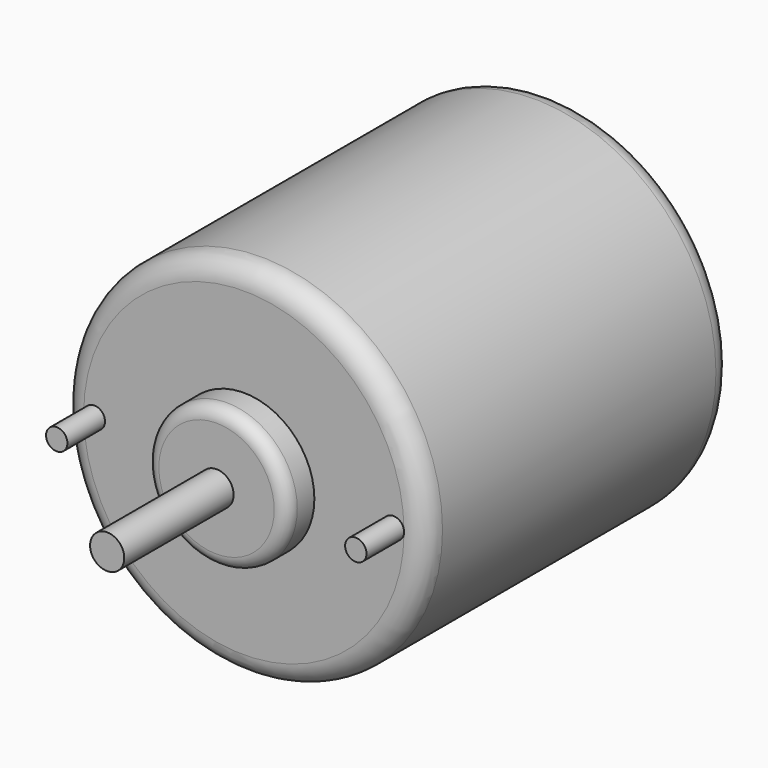
from build123d import *

# Parameters (mm, degrees)
SKETCH_R     = 42.5
PAD_DEPTH    = 90
FILLET_R     = 5
FILLET001_R  = 5
SKETCH001_R  = 16.5
PAD001_DEPTH = 8
FILLET002_R  = 3
SKETCH002_R  = 4
PAD002_DEPTH = 32
PAD003_DEPTH = 6
SKETCH004_R  = 16.5
PAD004_DEPTH = 10
FILLET003_R  = 3
SKETCH005_R  = 2.5
PAD005_DEPTH = 11


with BuildPart() as part:
    # Sketch → Pad (new body)
    with BuildSketch(Plane.XZ):
        Circle(SKETCH_R)
    extrude(amount=PAD_DEPTH)

    # Fillet
    fillet_edges = [part.edges().sort_by_distance(p)[0] for p in [
        (-42.5, -90, 0),
    ]]
    fillet(fillet_edges, radius=FILLET_R)

    # Fillet001
    fillet001_edges = [part.edges().sort_by_distance(p)[0] for p in [
        (-42.5, 0, 0),
    ]]
    fillet(fillet001_edges, radius=FILLET001_R)

    # Sketch001 (on Face5 of Fillet001) → Pad001 (join)
    with BuildSketch(Plane.XZ.offset(90)):
        Circle(SKETCH001_R)
    extrude(amount=PAD001_DEPTH)

    # Fillet002
    fillet002_edges = [part.edges().sort_by_distance(p)[0] for p in [
        (-16.5, -98, 0),
    ]]
    fillet(fillet002_edges, radius=FILLET002_R)

    # Sketch002 (on Face4 of Fillet002) → Pad002 (join)
    with BuildSketch(Plane.XZ.offset(98)):
        Circle(SKETCH002_R)
    extrude(amount=PAD002_DEPTH)

    # Sketch003 (on Face10 of Pad002) → Pad003 (join)
    with BuildSketch(Plane(origin=(0, 0, 0), x_dir=(1, 0, 0), z_dir=(0, 1, 0))):
        with BuildLine():
            Line((-20.922476, 21.5), (20.922476, 21.5))
            ThreePointArc((20.922476, -21.5), (30, 0), (20.922476, 21.5))
            Line((-20.922476, -21.5), (20.922476, -21.5))
            ThreePointArc((-20.922476, 21.5), (-30, 0), (-20.922476, -21.5))
        make_face()
    extrude(amount=PAD003_DEPTH)

    # Sketch004 (on Face15 of Pad003) → Pad004 (join)
    with BuildSketch(Plane(origin=(0, 6, 0), x_dir=(1, 0, 0), z_dir=(0, 1, 0))):
        Circle(SKETCH004_R)
    extrude(amount=PAD004_DEPTH)

    # Fillet003
    fillet003_edges = [part.edges().sort_by_distance(p)[0] for p in [
        (-16.5, 16, 0),
    ]]
    fillet(fillet003_edges, radius=FILLET003_R)

    # Sketch005 (on Face13 of Fillet003) → Pad005 (join)
    with BuildSketch(Plane.XZ.offset(90)):
        with Locations((-35, 0)):
            Circle(SKETCH005_R)
        with Locations((35, 0)):
            Circle(SKETCH005_R)
    extrude(amount=PAD005_DEPTH)


solid = part.part
